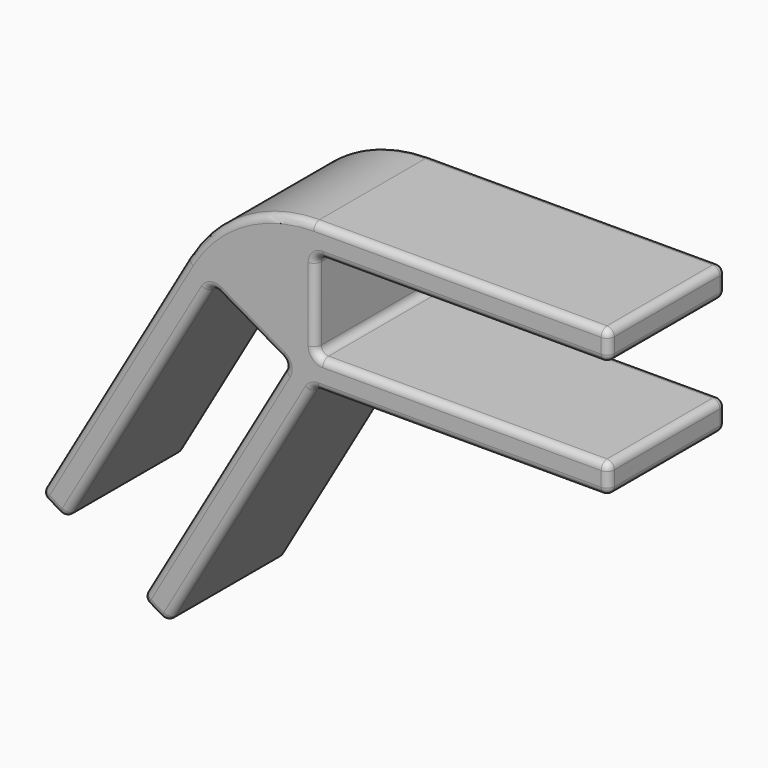
from build123d import *

# Parameters (mm, degrees)
F1_DEPTH = 12.7
F2_R     = 0.635


with BuildPart() as f1:
    # F0 (on Front) → F1 (new body)
    with BuildSketch(Plane.XZ):
        with BuildLine():
            Line((4.445, 3.81), (29.21, 3.81))
            Line((29.21, 3.81), (29.21, 6.35))
            Line((29.21, 6.35), (3.666174, 6.35))
            ThreePointArc((3.666174, 6.35), (-2.683826, 4.648523), (-7.332348, 0))
            Line((-7.332348, 0), (-20.104261, -22.121602))
            Line((-20.104261, -22.121602), (-17.904557, -23.391602))
            Line((-17.904557, -23.391602), (-5.522057, -1.944483))
            ThreePointArc((-5.522057, -1.944483), (-5.136481, -1.64862), (-4.654631, -1.712057))
            Line((-4.654631, -1.712057), (0.844631, -4.887057))
            ThreePointArc((0.844631, -4.887057), (1.140494, -5.272633), (1.077057, -5.754483))
            Line((1.077057, -5.754483), (-11.305443, -27.201602))
            Line((-11.305443, -27.201602), (-9.105739, -28.471602))
            Line((-9.105739, -28.471602), (3.666174, -6.35))
            Line((3.666174, -6.35), (29.21, -6.35))
            Line((29.21, -6.35), (29.21, -3.81))
            Line((29.21, -3.81), (4.445, -3.81))
            ThreePointArc((4.445, -3.81), (3.995987, -3.624013), (3.81, -3.175))
            Line((3.81, -3.175), (3.81, 3.175))
            ThreePointArc((3.81, 3.175), (3.995987, 3.624013), (4.445, 3.81))
        make_face()
    extrude(amount=F1_DEPTH)

    # F2
    f2_edges = [f1.edges().sort_by_distance(p)[0] for p in [
        (-2.719782, -12.7, -17.410801),
        (16.438087, -12.7, -6.35),
        (29.21, -12.7, -5.08),
        (16.8275, -12.7, -3.81),
        (3.995987, -12.7, -3.624013),
        (3.81, -12.7, 0),
        (3.995987, -12.7, 3.624013),
        (16.8275, -12.7, 3.81),
        (29.21, -12.7, 5.08),
        (16.438087, -12.7, 6.35),
        (-2.683826, -12.7, 4.648523),
        (-13.718305, -12.7, -11.060801),
        (-19.004409, -12.7, -22.756602),
        (-11.713307, -12.7, -12.668042),
        (-5.136481, -12.7, -1.64862),
        (-1.905, -12.7, -3.299557),
        (1.140494, -12.7, -5.272633),
        (-5.114193, -12.7, -16.478042),
        (-10.205591, -12.7, -27.836602),
        (29.21, -6.35, 3.81),
        (29.21, -6.35, 6.35),
        (29.21, 0, 5.08),
        (29.21, -6.35, -6.35),
        (29.21, -6.35, -3.81),
        (29.21, 0, -5.08),
        (-9.105739, -6.35, -28.471602),
        (3.666174, -6.35, -6.35),
        (-2.719782, 0, -17.410801),
        (16.438087, 0, -6.35),
        (16.8275, 0, -3.81),
        (3.995987, 0, -3.624013),
        (3.81, 0, 0),
        (3.995987, 0, 3.624013),
        (16.8275, 0, 3.81),
        (16.438087, 0, 6.35),
        (-2.683826, 0, 4.648523),
        (-13.718305, 0, -11.060801),
        (-19.004409, 0, -22.756602),
        (-11.713307, 0, -12.668042),
        (-5.136481, 0, -1.64862),
        (-1.905, 0, -3.299557),
        (1.140494, 0, -5.272633),
        (-5.114193, 0, -16.478042),
        (-10.205591, 0, -27.836602),
        (-11.305443, -6.35, -27.201602),
        (-20.104261, -6.35, -22.121602),
        (-17.904557, -6.35, -23.391602),
    ]]
    fillet(f2_edges, radius=F2_R)


solid = f1.part
